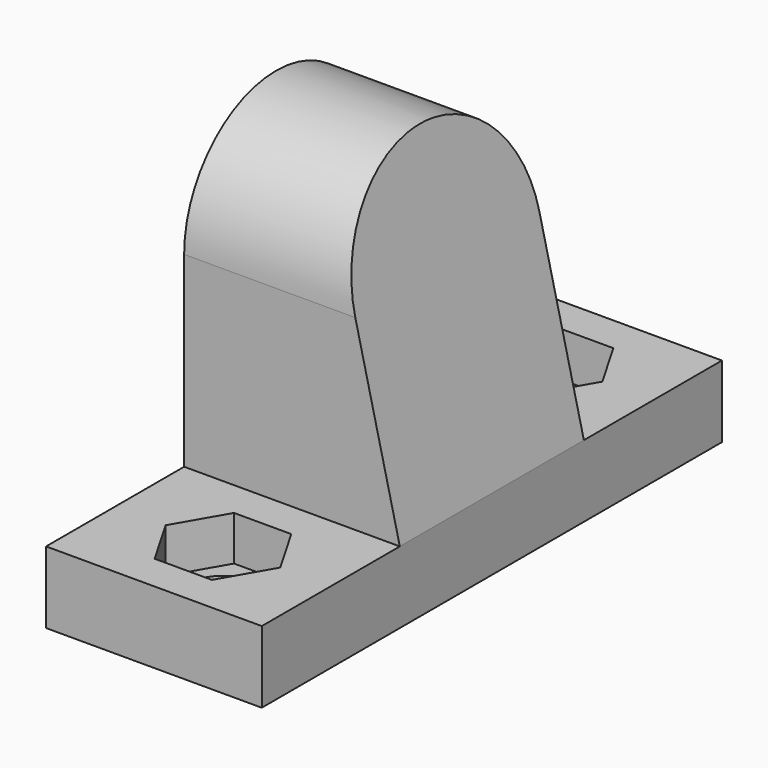
from build123d import *

# Parameters (mm, degrees)
PAD_DEPTH            = 7.5
POCKET_DEPTH         = 3.1
SKETCH002_R          = 2.5
POCKET001_DEPTH      = 126.020998
SKETCH003_R          = 4.05
POCKET002_DEPTH      = 8
POCKET003_DEPTH      = 20.001
POCKET003_DEPTH_BACK = -20.001


with BuildPart() as part:
    # Sketch → Pad (new body, symmetric)
    with BuildSketch(Plane.YZ):
        with BuildLine():
            Line((-20, 0), (20, 0))
            Line((20, 0), (20, 5))
            Line((20, 5), (8, 5))
            Line((8, 5), (8, 18))
            ThreePointArc((8, 18), (0, 26), (-8, 18))
            Line((-8, 18), (-8, 5))
            Line((-8, 5), (-20, 5))
            Line((-20, 5), (-20, 0))
        make_face()
    extrude(amount=PAD_DEPTH, both=True)

    # Sketch001 (on Face7 of Pad) → Pocket (cut)
    with BuildSketch(Plane(origin=(0, 0, 5), x_dir=(0, -1, 0), z_dir=(0, 0, 1))):
        Polygon((-10.55, 1.991858), (-14, 3.983717), (-17.45, 1.991858), (-17.45, -1.991858), (-14, -3.983717), (-10.55, -1.991858), align=None)
    pocket = extrude(amount=-POCKET_DEPTH, mode=Mode.SUBTRACT)

    # Sketch002 (on Face1 of Pocket) → Pocket001 (cut, through all)
    with BuildSketch(Plane.YX):
        with Locations((14, 0)):
            Circle(SKETCH002_R)
    pocket001 = extrude(amount=-POCKET001_DEPTH, mode=Mode.SUBTRACT)

    # Mirrored: Pocket, Pocket001 across XZ
    add(pocket.mirror(Plane.XZ), mode=Mode.SUBTRACT)
    add(pocket001.mirror(Plane.XZ), mode=Mode.SUBTRACT)

    # Sketch003 (on Face3 of Mirrored) → Pocket002 (cut)
    with BuildSketch(Plane(origin=(-7.5, 0, 0), x_dir=(0, 1, 0), z_dir=(-1, 0, 0))):
        with Locations((0, -18)):
            Circle(SKETCH003_R)
    extrude(amount=-POCKET002_DEPTH, mode=Mode.SUBTRACT)

    # Sketch004 → Pocket003 (cut, two sides)
    with BuildSketch(Plane.XZ) as pocket003_sk:
        Polygon((7.5, 5), (2.5, 26), (7.5, 26), align=None)
    extrude(amount=-POCKET003_DEPTH, mode=Mode.SUBTRACT)
    extrude(pocket003_sk.sketch, amount=-POCKET003_DEPTH_BACK, mode=Mode.SUBTRACT)


solid = part.part
